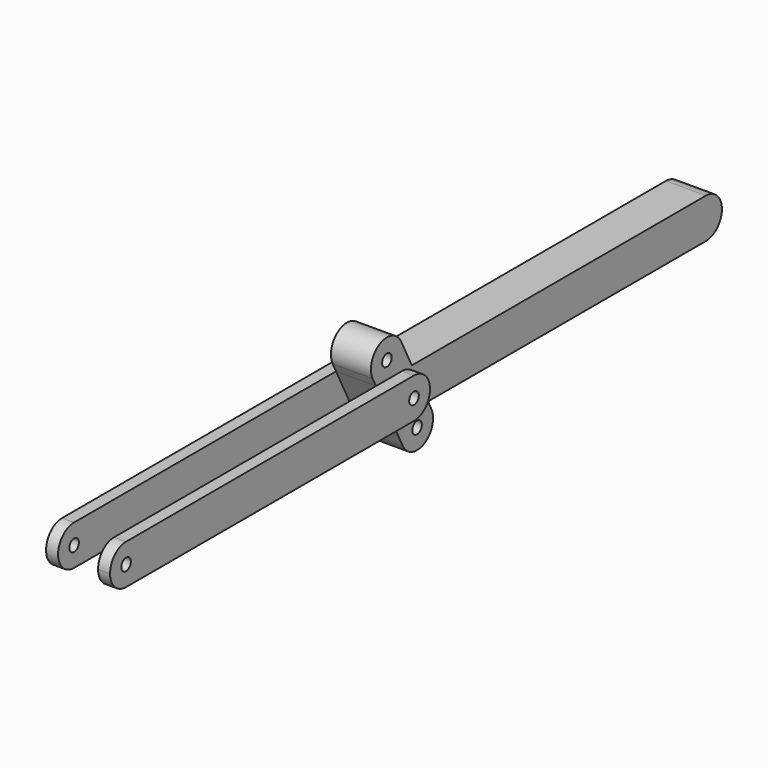
from build123d import *

# Parameters (mm, degrees)
F1_R     = 1.5
F2_DEPTH = 3
F4_R     = 1.5
F5_DEPTH = 3
F6_R     = 1.5
F7_DEPTH = 10


with BuildPart() as f2:
    # F1 (on offset) → F2 (new body)
    with BuildSketch(Plane.YZ.offset(5)):
        with BuildLine():
            Line((45, 5), (-45, 5))
            ThreePointArc((-45, 5), (-48.535534, 3.535534), (-50, 0))
            ThreePointArc((-50, 0), (-48.535534, -3.535534), (-45, -5))
            Line((-45, -5), (45, -5))
            ThreePointArc((45, -5), (48.535534, -3.535534), (50, 0))
            ThreePointArc((50, 0), (48.535534, 3.535534), (45, 5))
        make_face()
        with Locations((-45, 0)):
            Circle(F1_R, mode=Mode.SUBTRACT)
        with Locations((45, 0)):
            Circle(F1_R, mode=Mode.SUBTRACT)
    extrude(amount=F2_DEPTH)


with BuildPart() as f5:
    # F4 (on offset) → F5 (new body)
    with BuildSketch(Plane.YZ.offset(-5)):
        with BuildLine():
            ThreePointArc((-45, 5), (-50, 0), (-45, -5))
            Line((-45, -5), (45, -5))
            ThreePointArc((45, -5), (50, 0), (45, 5))
            Line((45, 5), (-45, 5))
        make_face()
        with Locations((-45, 0)):
            Circle(F4_R, mode=Mode.SUBTRACT)
        with Locations((45, 0)):
            Circle(F4_R, mode=Mode.SUBTRACT)
    extrude(amount=-F5_DEPTH)


with BuildPart() as f7:
    # F6 (on face) → F7 (new body)
    with BuildSketch(Plane.YZ.offset(-5)):
        with BuildLine():
            Line((36.873005, 5), (41.923832, -5))
            Line((41.923832, -5), (45, -5))
            ThreePointArc((45, -5), (50, 0), (45, 5))
            Line((45, 5), (36.873005, 5))
        make_face()
        with Locations((45, 0)):
            Circle(F6_R, mode=Mode.SUBTRACT)
        with BuildLine():
            ThreePointArc((45.249344, -11.584093), (51.966567, -13.792921), (54.175395, -7.075699))
            Line((54.175395, -7.075699), (53.126995, -5))
            Line((53.126995, -5), (140, -5))
            ThreePointArc((140, -5), (143.535534, -3.535534), (145, 0))
            ThreePointArc((145, 0), (143.535534, 3.535534), (140, 5))
            Line((140, 5), (48.076168, 5))
            Line((48.076168, 5), (44.750656, 11.584093))
            ThreePointArc((44.750656, 11.584093), (38.033433, 13.792921), (35.824605, 7.075699))
            Line((35.824605, 7.075699), (36.873005, 5))
            Line((36.873005, 5), (45, 5))
            ThreePointArc((45, 5), (50, 0), (45, -5))
            Line((45, -5), (41.923832, -5))
            Line((41.923832, -5), (45.249344, -11.584093))
        make_face()
        with Locations((49.71237, -9.329896)):
            Circle(F6_R, mode=Mode.SUBTRACT)
        with Locations((40.28763, 9.329896)):
            Circle(F6_R, mode=Mode.SUBTRACT)
    extrude(amount=F7_DEPTH)


solid = Compound([f2.part, f5.part, f7.part])
